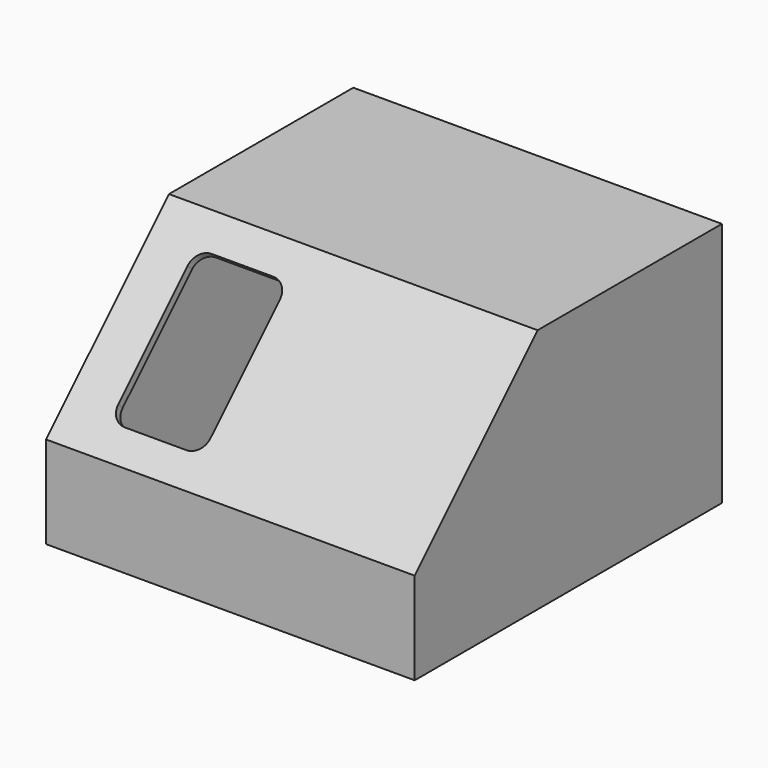
from build123d import *

# Parameters (mm, degrees)
F0_W     = 120
F0_H     = 80
F1_DEPTH = 62.5
F2_SIZE  = 50
F3_T     = -2.5
F5_DEPTH = 25


with BuildPart() as f1:
    # F0 (on Front) → F1 (new body, symmetric)
    with BuildSketch(Plane.XZ):
        with Locations((-60, 40)):
            Rectangle(F0_W, F0_H)
    extrude(amount=F1_DEPTH, both=True)

    # F2
    f2_edges = [f1.edges().sort_by_distance(p)[0] for p in [
        (-60, -62.5, 80),
    ]]
    chamfer(f2_edges, length=F2_SIZE)

    # F3
    f3_openings = [f1.faces().sort_by_distance(p)[0] for p in [
        (-60, 0, 0),
    ]]
    offset(amount=F3_T, openings=f3_openings)

    # F4 (on face) → F5 (cut)
    with BuildSketch(Plane(origin=(0, -46.25, 46.25), x_dir=(1, 0, 0), z_dir=(0, -0.707107, 0.707107))):
        with BuildLine():
            Line((-80, 37.01903), (-100, 37.01903))
            ThreePointArc((-100, 37.01903), (-103.535534, 35.554564), (-105, 32.01903))
            Line((-105, 32.01903), (-105, -7.98097))
            ThreePointArc((-105, -7.98097), (-103.535534, -11.516504), (-100, -12.98097))
            Line((-100, -12.98097), (-80, -12.98097))
            ThreePointArc((-80, -12.98097), (-76.464466, -11.516504), (-75, -7.98097))
            Line((-75, -7.98097), (-75, 32.01903))
            ThreePointArc((-75, 32.01903), (-76.464466, 35.554564), (-80, 37.01903))
        make_face()
    extrude(amount=-F5_DEPTH, mode=Mode.SUBTRACT)


solid = f1.part
